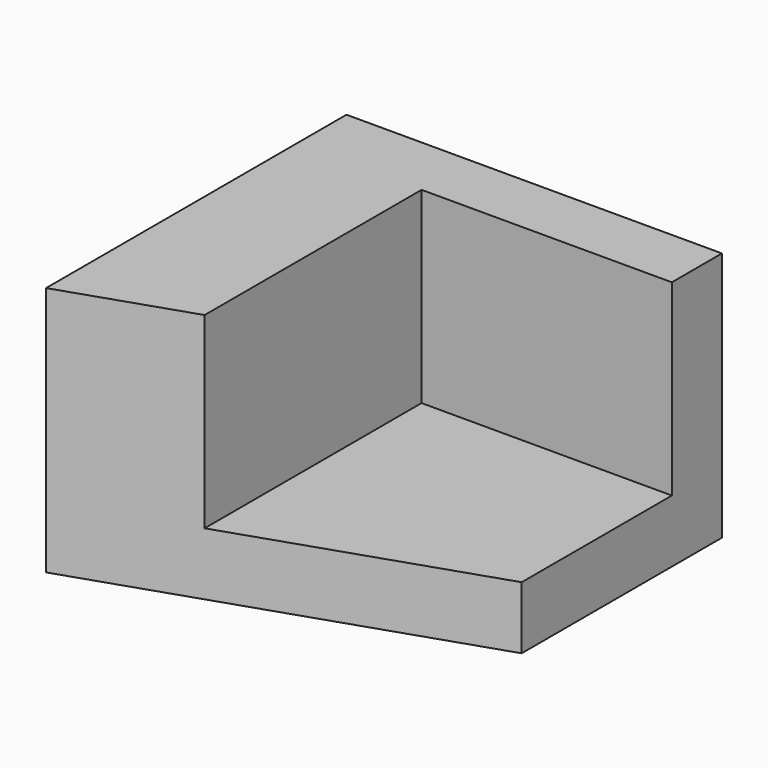
from build123d import *

# Parameters (mm, degrees)
F0_W     = 76.2
F0_H     = 50.8
F1_DEPTH = 76.2
F2_W     = 50.8
F2_H     = 63.5
F3_DEPTH = 38.1
F5_DEPTH = 50.801


with BuildPart() as f1:
    # F0 (on Right) → F1 (new body)
    with BuildSketch(Plane.YZ):
        with Locations((38.1, 25.4)):
            Rectangle(F0_W, F0_H)
    extrude(amount=F1_DEPTH)

    # F2 (on face) → F3 (cut)
    with BuildSketch(Plane.XY.offset(50.8)):
        with Locations((50.8, 31.75)):
            Rectangle(F2_W, F2_H)
    extrude(amount=-F3_DEPTH, mode=Mode.SUBTRACT)

    # F4 (on face) → F5 (cut, through all)
    with BuildSketch(Plane.XY.offset(50.8)):
        Polygon((76.2, 25.4), (0, 0), (76.2, 0), align=None)
        Polygon((25.4, 8.466667), (25.4, 0), (76.2, 0), (76.2, 25.4), align=None)
    extrude(amount=-F5_DEPTH, mode=Mode.SUBTRACT)


solid = f1.part
